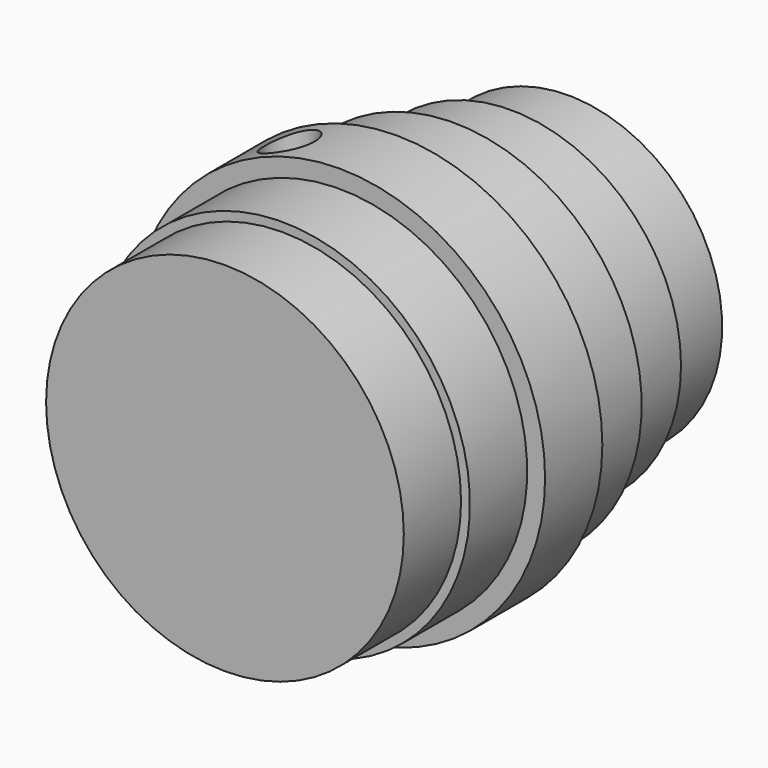
from build123d import *

# Parameters (mm, degrees)
F0_R      = 63.5
F1_DEPTH  = 25.4
F2_R      = 66.675
F2_R_2    = 60.325
F3_DEPTH  = 25.4
F4_R      = 73.025
F4_R_2    = 63.5
F5_DEPTH  = 25.4
F6_R      = 66.675
F6_R_2    = 57.15
F7_DEPTH  = 25.4
F8_R      = 60.325
F8_R_2    = 49.53
F9_DEPTH  = 25.4
F10_R     = 54.61
F11_DEPTH = 25.4
F13_D     = 17.78
F13_DEPTH = 73.026


with BuildPart() as f1:
    # F0 (on Front) → F1 (new body)
    with BuildSketch(Plane.XZ):
        Circle(F0_R)
    extrude(amount=F1_DEPTH)

    # F2 (on face) → F3 (join)
    with BuildSketch(Plane(origin=(0, 0, 0), x_dir=(-1, 0, 0), z_dir=(0, 1, 0))):
        Circle(F2_R)
        Circle(F2_R_2, mode=Mode.SUBTRACT)
    extrude(amount=F3_DEPTH)

    # F4 (on face) → F5 (join)
    with BuildSketch(Plane(origin=(0, 25.4, 0), x_dir=(-1, 0, 0), z_dir=(0, 1, 0))):
        Circle(F4_R)
        Circle(F4_R_2, mode=Mode.SUBTRACT)
    extrude(amount=F5_DEPTH)

    # F6 (on face) → F7 (join)
    with BuildSketch(Plane(origin=(0, 50.8, 0), x_dir=(-1, 0, 0), z_dir=(0, 1, 0))):
        Circle(F6_R)
        Circle(F6_R_2, mode=Mode.SUBTRACT)
    extrude(amount=F7_DEPTH)

    # F8 (on face) → F9 (join)
    with BuildSketch(Plane(origin=(0, 76.2, 0), x_dir=(-1, 0, 0), z_dir=(0, 1, 0))):
        Circle(F8_R)
        Circle(F8_R_2, mode=Mode.SUBTRACT)
    extrude(amount=F9_DEPTH)

    # F10 (on face) → F11 (join)
    with BuildSketch(Plane(origin=(0, 101.6, 0), x_dir=(-1, 0, 0), z_dir=(0, 1, 0))):
        Circle(F10_R)
    extrude(amount=F11_DEPTH)

    # F13 (through all, one way)
    with BuildSketch(Plane(origin=(0, 0, 0), x_dir=(1, 0, 0), z_dir=(0, 0, -1))):
        with Locations((-27.1317604929, -37.2066497803)):
            Circle(F13_D / 2)
    extrude(amount=-F13_DEPTH, mode=Mode.SUBTRACT)


solid = f1.part
